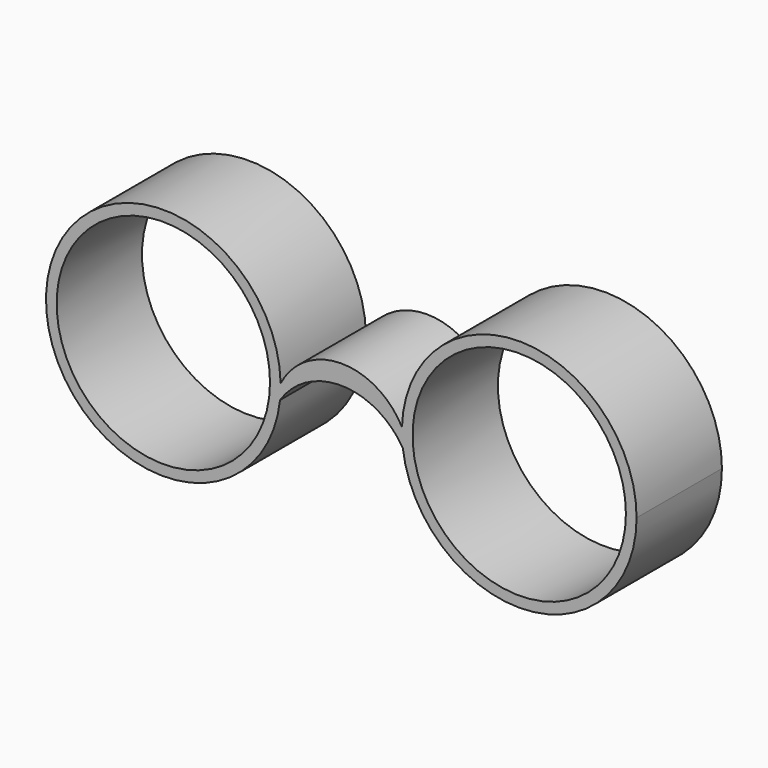
from build123d import *

# Parameters (mm, degrees)
F0_R     = 25
F1_DEPTH = 25


with BuildPart() as f1:
    # F0 (on Front) → F1 (new body)
    with BuildSketch(Plane.XZ):
        with BuildLine():
            ThreePointArc((-17.005196, 20.183328), (-16.891213, 21.625071), (-16.853183, 23.070812))
            ThreePointArc((-16.853183, 23.070812), (-16.854895, 23.37759), (-16.860028, 23.68433))
            ThreePointArc((-16.860028, 23.68433), (-71.829573, 24.21011), (-17.005196, 20.183328))
        make_face()
        with Locations((-44.353183, 23.070812)):
            Circle(F0_R, mode=Mode.SUBTRACT)
        with BuildLine():
            ThreePointArc((-16.860028, 23.68433), (-16.854895, 23.37759), (-16.853183, 23.070812))
            ThreePointArc((-16.853183, 23.070812), (-16.891213, 21.625071), (-17.005196, 20.183328))
            ThreePointArc((-17.005196, 20.183328), (-2.472507, 27.848748), (11.767841, 19.653005))
            ThreePointArc((11.767841, 19.653005), (11.585381, 21.770557), (11.567004, 23.895875))
            ThreePointArc((11.567004, 23.895875), (-2.710738, 32.420641), (-16.860028, 23.68433))
        make_face()
        with BuildLine():
            ThreePointArc((66.554625, 23.070812), (39.467203, 50.567717), (11.567004, 23.895875))
            ThreePointArc((11.567004, 23.895875), (11.585381, 21.770557), (11.767841, 19.653005))
            ThreePointArc((11.767841, 19.653005), (40.766851, -4.375832), (66.554625, 23.070812))
        make_face()
        with Locations((39.054625, 23.070812)):
            Circle(F0_R, mode=Mode.SUBTRACT)
    extrude(amount=F1_DEPTH)


solid = f1.part
